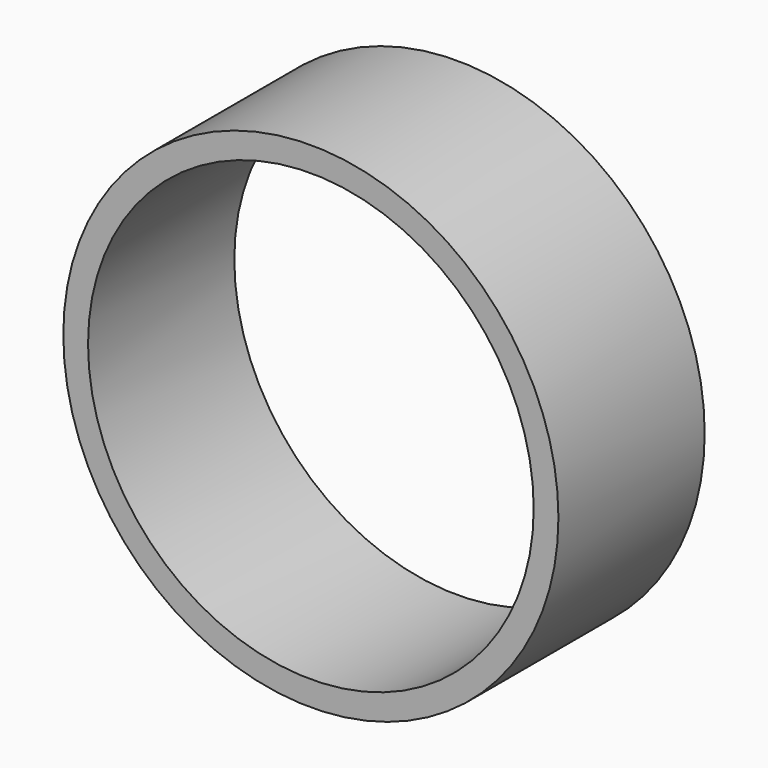
from build123d import *

# Parameters (mm, degrees)
F1_R     = 34.3916
F1_R_2   = 30.95625
F2_DEPTH = 25.4


with BuildPart() as f2:
    # F1 (on face) → F2 (new body)
    with BuildSketch(Plane.XZ):
        Circle(F1_R)
        Circle(F1_R_2, mode=Mode.SUBTRACT)
    extrude(amount=F2_DEPTH)


solid = f2.part
